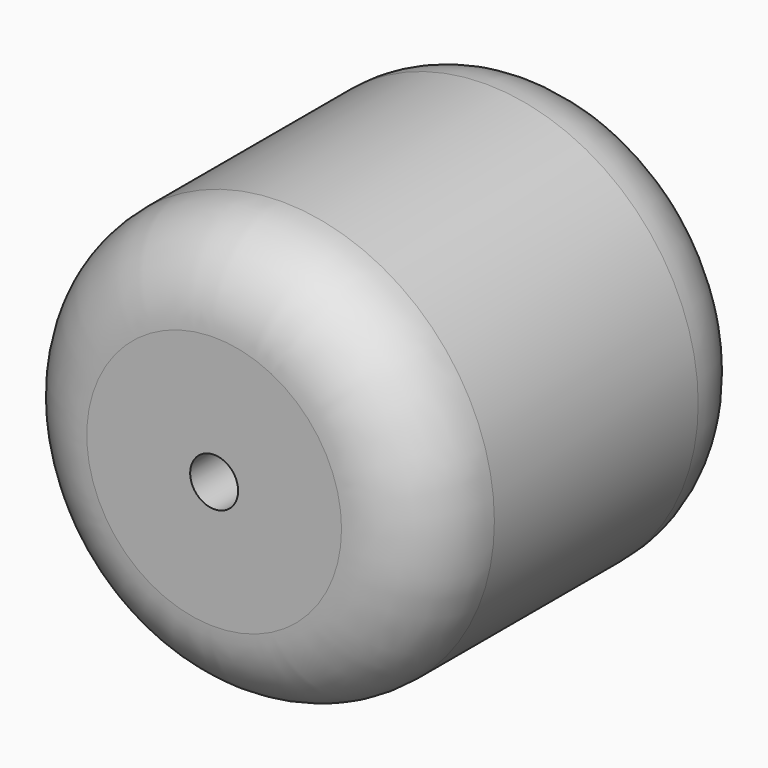
from build123d import *

# Parameters (mm, degrees)
F0_R     = 12.7
F1_DEPTH = 25.4
F2_DEPTH = 17.78
F3_R     = 5.08
F4_R     = 1.4351
F5_DEPTH = 25.4


with BuildPart() as f1:
    # F0 (on Front) → F1 (new body)
    with BuildSketch(Plane.XZ):
        Circle(F0_R)
    extrude(amount=F1_DEPTH)

    # F0 (on Front) → F2 (join)
    with BuildSketch(Plane.XZ):
        Circle(F0_R)
    extrude(amount=F2_DEPTH)

    # F3
    f3_edges = [f1.edges().sort_by_distance(p)[0] for p in [
        (-12.7, 0, 0),
        (-12.7, -25.4, 0),
    ]]
    fillet(f3_edges, radius=F3_R)

    # F4 (on face) → F5 (cut)
    with BuildSketch(Plane(origin=(0, 0, 0), x_dir=(-1, 0, 0), z_dir=(0, 1, 0))):
        Circle(F4_R)
    extrude(amount=-F5_DEPTH, mode=Mode.SUBTRACT)


solid = f1.part
